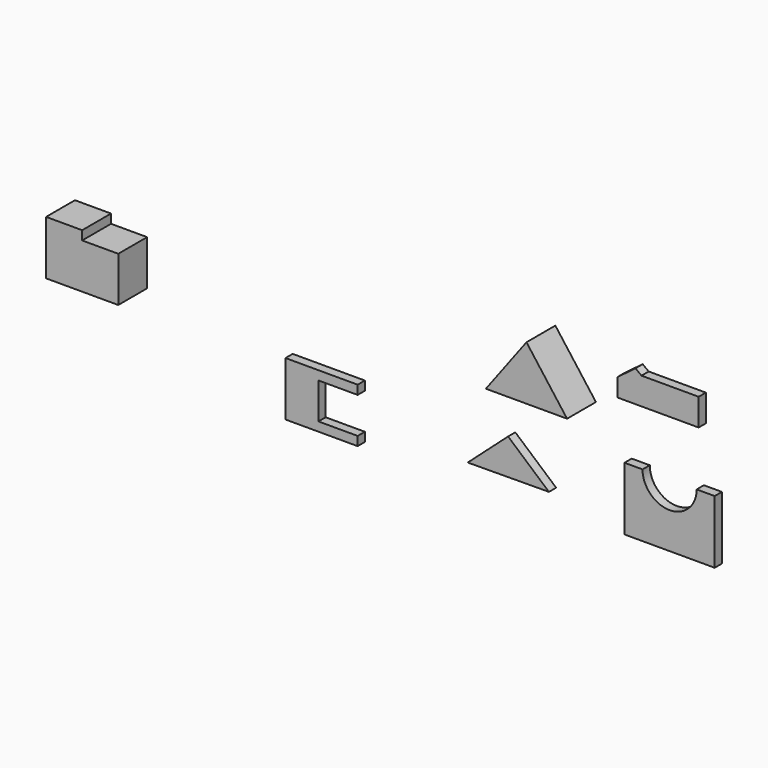
from build123d import *

# Parameters (mm, degrees)
F1_DEPTH  = 101.6
F4_DEPTH  = 101.6
F6_DEPTH  = 25.4
F8_DEPTH  = 25.4
F2_W      = 127
F2_H      = 50.8
F9_DEPTH  = 25.4
F11_DEPTH = 25.4


with BuildPart() as f1:
    # F0 (on Front) → F1 (new body)
    with BuildSketch(Plane.XZ):
        Polygon((336.283034, 15.647688), (279.133034, -60.552312), (507.733034, -60.552312), (450.583034, 15.647688), align=None)
        Polygon((393.433034, 91.847688), (336.283034, 15.647688), (450.583034, 15.647688), align=None)
    extrude(amount=F1_DEPTH)


with BuildPart() as f4:
    # F3 (on Front) → F4 (new body)
    with BuildSketch(Plane.XZ):
        Polygon((-959.129759, -189.663569), (-755.929759, -189.663569), (-755.929759, -62.663569), (-857.529759, -62.663569), (-857.529759, -37.263569), (-959.129759, -37.263569), align=None)
    extrude(amount=F4_DEPTH)


with BuildPart() as f6:
    # F5 (on Front) → F6 (new body)
    with BuildSketch(Plane.XZ):
        Polygon((-346.053687, -371.139194), (-142.853687, -371.139194), (-142.853687, -345.739194), (-253.257602, -345.739194), (-253.257602, -244.139194), (-142.853687, -244.139194), (-142.853687, -218.739194), (-346.053687, -218.739194), align=None)
    extrude(amount=F6_DEPTH)


with BuildPart() as f8:
    # F7 (on Front) → F8 (new body)
    with BuildSketch(Plane.XZ):
        with BuildLine():
            Line((608.450864, -345.661539), (862.450864, -345.661539))
            Line((862.450864, -345.661539), (862.450864, -167.861539))
            Line((862.450864, -167.861539), (811.650864, -167.861539))
            ThreePointArc((811.650864, -167.861539), (735.450864, -244.061539), (659.250864, -167.861539))
            Line((659.250864, -167.861539), (608.450864, -167.861539))
            Line((608.450864, -167.861539), (608.450864, -345.661539))
        make_face()
    extrude(amount=F8_DEPTH)


with BuildPart() as f9:
    # F2 (on Front) → F9 (new body)
    with BuildSketch(Plane.XZ):
        Polygon((588.609278, -12.66572), (690.209278, -12.66572), (690.209278, 38.13428), (656.342612, 63.53428), (639.409278, 76.23428), (588.609278, 38.13428), align=None)
        with Locations((753.709278, 12.73428)):
            Rectangle(F2_W, F2_H)
        Polygon((690.209278, 38.13428), (817.209278, 38.13428), (817.209278, 63.53428), (656.342612, 63.53428), align=None)
    extrude(amount=F9_DEPTH)


with BuildPart() as f11:
    # F10 (on Front) → F11 (new body)
    with BuildSketch(Plane.XZ):
        Polygon((280.732538, -209.286173), (167.139215, -310.884977), (395.733642, -309.288705), align=None)
    extrude(amount=F11_DEPTH)


solid = Compound([f1.part, f4.part, f6.part, f8.part, f9.part, f11.part])
